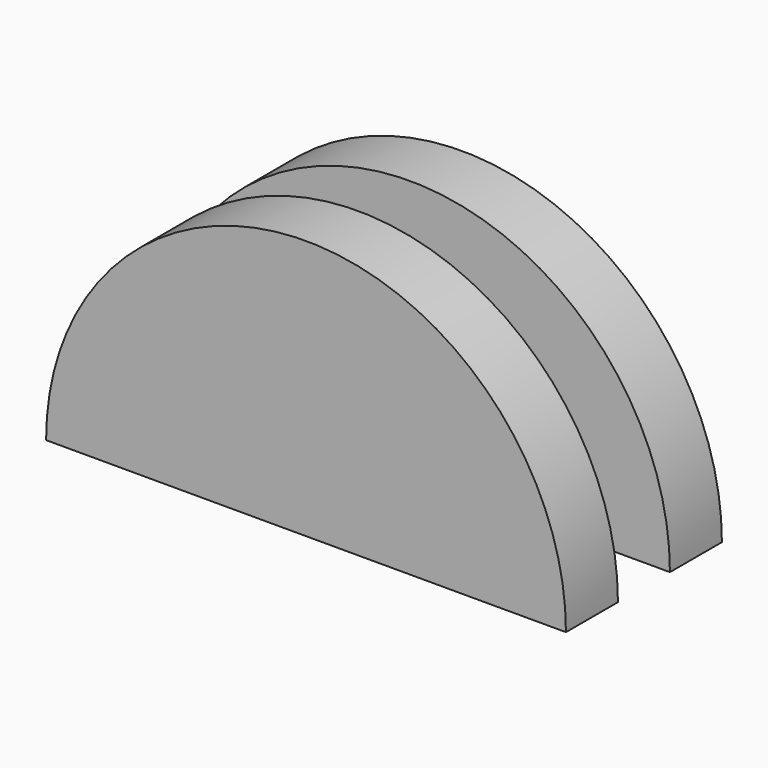
from build123d import *

# Parameters (mm, degrees)
F0_R     = 20
F1_DEPTH = 5
F2_R     = 10.480538
F3_DEPTH = 5
F4_R     = 20
F5_DEPTH = 5
F7_DEPTH = 25


with BuildPart() as f1:
    # F0 (on Front) → F1 (new body)
    with BuildSketch(Plane.XZ):
        Circle(F0_R)
    extrude(amount=F1_DEPTH)

    # F2 (on face) → F3 (join)
    with BuildSketch(Plane.XZ.offset(5)):
        Circle(F2_R)
    extrude(amount=F3_DEPTH)

    # F4 (on face) → F5 (join)
    with BuildSketch(Plane.XZ.offset(10)):
        Circle(F4_R)
    extrude(amount=F5_DEPTH)

    # F6 (on face) → F7 (cut)
    with BuildSketch(Plane.XZ.offset(15)):
        Polygon((42.726062, 0), (-35.465427, 0), (-28.7633, -32.393619), (42.726062, -32.393619), align=None)
    extrude(amount=-F7_DEPTH, mode=Mode.SUBTRACT)


solid = f1.part
